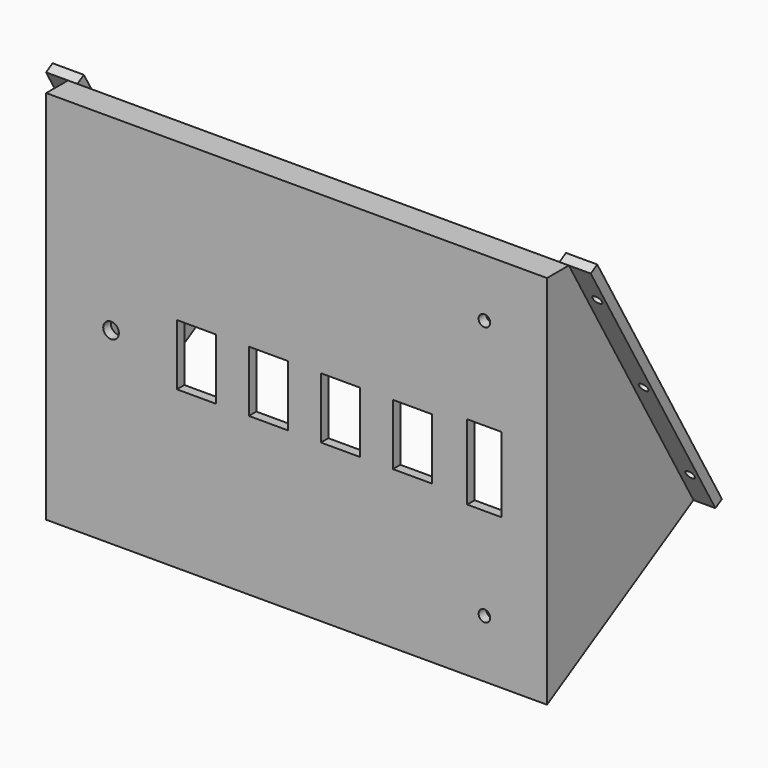
from build123d import *

# Parameters (mm, degrees)
F0_W     = 160
F0_H     = 120
F0_R     = 1.85
F0_R_2   = 2.5
F0_W_2   = 12.5
F0_H_2   = 19.5
F0_W_3   = 11
F0_H_3   = 24
F1_DEPTH = 3
F2_W     = 160
F2_H     = 120
F2_W_2   = 154
F2_H_2   = 114
F3_DEPTH = 75
F5_DEPTH = 160.001
F6_W     = 10
F6_H     = 99.564
F6_R     = 1.5
F7_DEPTH = 3


with BuildPart() as f1:
    # F0 (on Front) → F1 (new body)
    with BuildSketch(Plane.XZ):
        Rectangle(F0_W, F0_H)
        with Locations((60, -41.5)):
            Circle(F0_R, mode=Mode.SUBTRACT)
        with Locations((-59.2675954103, 0)):
            Circle(F0_R_2, mode=Mode.SUBTRACT)
        with Locations((-32, 0)):
            Rectangle(F0_W_2, F0_H_2, mode=Mode.SUBTRACT)
        with Locations((-9, 0)):
            Rectangle(F0_W_2, F0_H_2, mode=Mode.SUBTRACT)
        with Locations((14, 0)):
            Rectangle(F0_W_2, F0_H_2, mode=Mode.SUBTRACT)
        with Locations((37, 0)):
            Rectangle(F0_W_2, F0_H_2, mode=Mode.SUBTRACT)
        with Locations((60, 0)):
            Rectangle(F0_W_3, F0_H_3, mode=Mode.SUBTRACT)
        with Locations((60, 41.5)):
            Circle(F0_R, mode=Mode.SUBTRACT)
    extrude(amount=F1_DEPTH)

    # F2 (on face) → F3 (join)
    with BuildSketch(Plane(origin=(0, 0, 0), x_dir=(-1, 0, 0), z_dir=(0, 1, 0))):
        Rectangle(F2_W, F2_H)
        Rectangle(F2_W_2, F2_H_2, mode=Mode.SUBTRACT)
    extrude(amount=F3_DEPTH)

    # F4 (on face) → F5 (cut, through all)
    with BuildSketch(Plane.YZ.offset(80)):
        Polygon((75, 60), (5.7179676972, 60), (55.5, -26.2250092524), (-3, -60), (75, -60), align=None)
    extrude(amount=-F5_DEPTH, mode=Mode.SUBTRACT)

    # F6 (on face) → F7 (join)
    with BuildSketch(Plane(origin=(0, 30.2692378865, 17.4759526419), x_dir=(-1, 0, 0), z_dir=(0, 0.8660254038, 0.5))):
        with Locations((-82, -0.6795242271)):
            Rectangle(F6_W, F6_H)
        with Locations((-84, -37.7615242271)):
            Circle(F6_R, mode=Mode.SUBTRACT)
        with Locations((-84, -0.6795242271)):
            Circle(F6_R, mode=Mode.SUBTRACT)
        with Locations((-84, 36.4024757729)):
            Circle(F6_R, mode=Mode.SUBTRACT)
        with Locations((82, -0.6795242271)):
            Rectangle(F6_W, F6_H)
        with Locations((84, -37.7615242271)):
            Circle(F6_R, mode=Mode.SUBTRACT)
        with Locations((84, -0.6795242271)):
            Circle(F6_R, mode=Mode.SUBTRACT)
        with Locations((84, 36.4024757729)):
            Circle(F6_R, mode=Mode.SUBTRACT)
    extrude(amount=F7_DEPTH)


solid = f1.part
